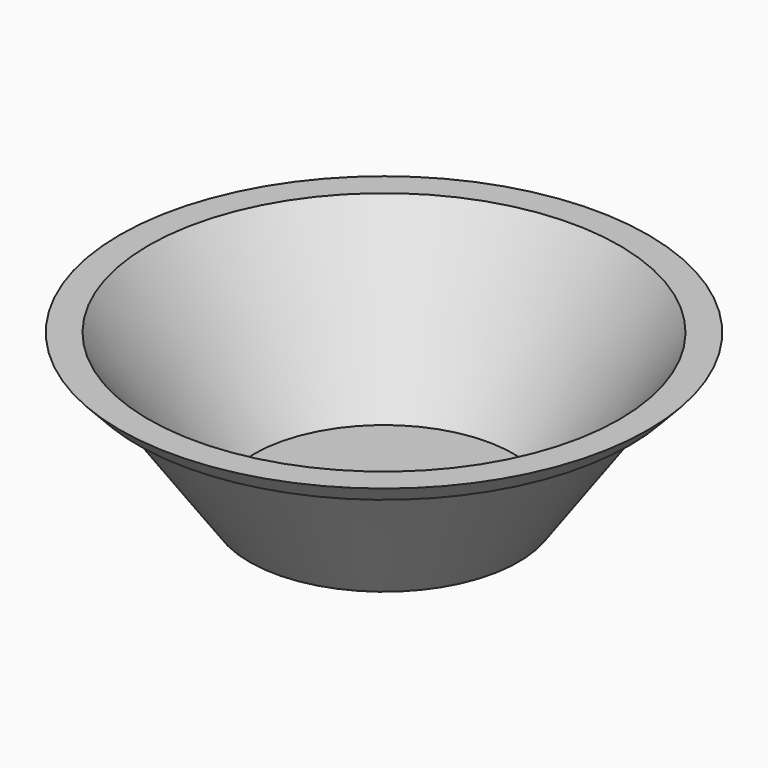
from build123d import *

# Parameters (mm, degrees)
F0_W = 5
F0_H = 5


with BuildPart() as f1:
    # F0 (on Front) → F1 (revolve)
    with BuildSketch(Plane.XZ):
        Polygon((-5, 0), (0, 0), (0, 5), (-70.414929, 5), (-127.732546, 85.890315), (-143.274711, 85.890315), (-133.327724, 75.321652), (-126.371749, 75.321652), (-73, 0), align=None)
        with Locations((-2.5, -2.5)):
            Rectangle(F0_W, F0_H)
    revolve(axis=Axis((0, 0, 191.825941), (0, 0, 1)))


solid = f1.part
